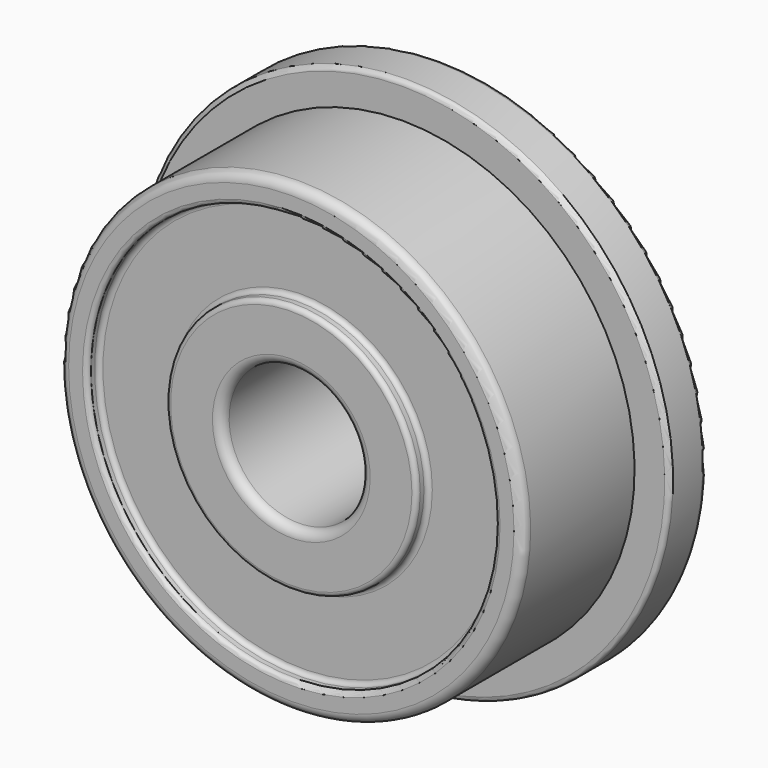
from build123d import *

# Parameters (mm, degrees)
F2_R     = 0.2
F3_R     = 0.1
F4_R     = 4.4
F4_R_2   = 2.7
F5_DEPTH = 0.3
F6_R     = 4.4
F6_R_2   = 2.7
F7_DEPTH = 0.3
F8_R     = 0.1


with BuildPart() as f1:
    # F0 (on Right) → F1 (revolve)
    with BuildSketch(Plane.YZ):
        Polygon((-2, 5), (-2, 1.5), (2, 1.5), (2, 5.75), (1, 5.75), (1, 5), align=None)
    revolve(axis=Axis((0, 3.003132, 0), (0, 1, 0)))

    # F2
    f2_edges = [f1.edges().sort_by_distance(p)[0] for p in [
        (0, -2, -1.5),
        (0, 2, -1.5),
        (0, 0, 1.5),
        (0, -2, -5),
    ]]
    fillet(f2_edges, radius=F2_R)

    # F3
    f3_edges = [f1.edges().sort_by_distance(p)[0] for p in [
        (0, 2, -5.75),
        (0, 1, -5.75),
        (0, 1.5, 5.75),
    ]]
    fillet(f3_edges, radius=F3_R)

    # F4 (on face) → F5 (cut)
    with BuildSketch(Plane(origin=(0, 2, 0), x_dir=(-1, 0, 0), z_dir=(0, 1, 0))):
        Circle(F4_R)
        Circle(F4_R_2, mode=Mode.SUBTRACT)
    extrude(amount=-F5_DEPTH, mode=Mode.SUBTRACT)

    # F6 (on face) → F7 (cut)
    with BuildSketch(Plane.XZ.offset(2)):
        Circle(F6_R)
        Circle(F6_R_2, mode=Mode.SUBTRACT)
    extrude(amount=-F7_DEPTH, mode=Mode.SUBTRACT)

    # F8
    f8_edges = [f1.edges().sort_by_distance(p)[0] for p in [
        (4.4, 1.7, 0),
        (2.7, 1.7, 0),
        (4.4, 2, 0),
        (2.7, 2, 0),
        (-4.4, -1.7, 0),
        (-2.7, -1.7, 0),
        (-4.4, -2, 0),
        (-2.7, -2, 0),
    ]]
    fillet(f8_edges, radius=F8_R)


solid = f1.part
